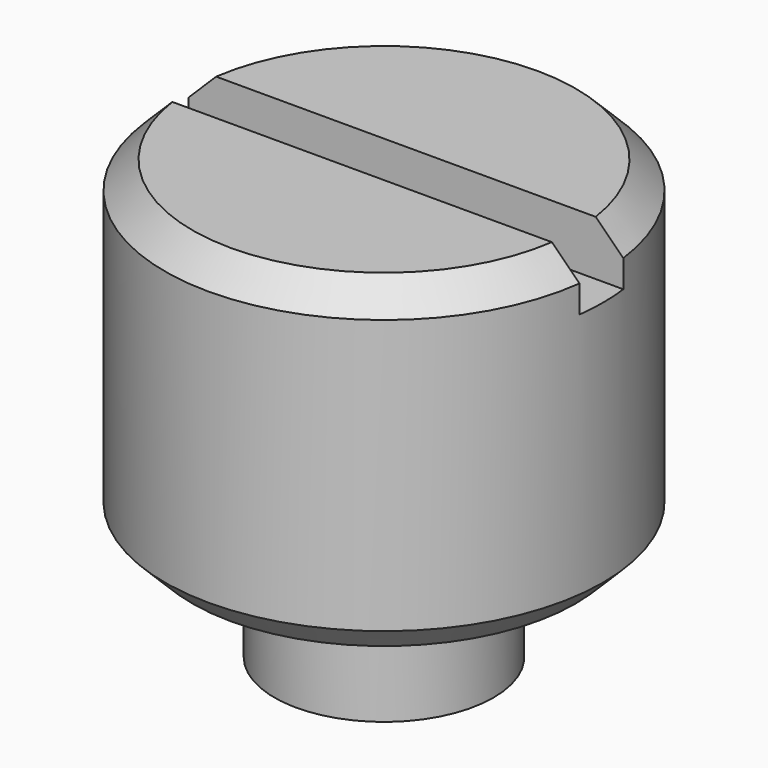
from build123d import *

# Parameters (mm, degrees)
F2_SIZE  = 0.5
F3_SIZE  = 0.5
F5_DEPTH = 1


with BuildPart() as f1:
    # F0 (on Front) → F1 (revolve)
    with BuildSketch(Plane.XZ):
        Polygon((0, 8), (0, 0), (2, 0), (2, 2), (3.9999996265, 2), (3.9999996265, 8), align=None)
    revolve(axis=Axis((0, 0, 4), (0, 0, -1)))

    # F2
    f2_edges = [f1.edges().sort_by_distance(p)[0] for p in [
        (-4, 0, 8),
    ]]
    chamfer(f2_edges, length=F2_SIZE)

    # F3
    f3_edges = [f1.edges().sort_by_distance(p)[0] for p in [
        (-4, 0, 2),
    ]]
    chamfer(f3_edges, length=F3_SIZE)

    # F4 (on face) → F5 (cut)
    with BuildSketch(Plane.XY.offset(8)):
        with BuildLine():
            Line((5, 0.5), (3.4641012378, 0.5))
            ThreePointArc((3.4641012378, 0.5), (3.4910134935, 0.2506435189), (3.4999996265, 0))
            ThreePointArc((3.4999996265, 0), (3.4910134935, -0.2506435189), (3.4641012378, -0.5))
            Line((3.4641012378, -0.5), (5, -0.5))
            Line((5, -0.5), (5, 0))
            Line((5, 0), (5, 0.5))
        make_face()
        with BuildLine():
            ThreePointArc((-3.4641012378, 0.5), (-3.4910134935, 0.2506435189), (-3.4999996265, 0))
            ThreePointArc((-3.4999996265, 0), (-3.4910134935, -0.2506435189), (-3.4641012378, -0.5))
            Line((-3.4641012378, -0.5), (3.4641012378, -0.5))
            ThreePointArc((3.4641012378, -0.5), (3.4910134935, -0.2506435189), (3.4999996265, 0))
            ThreePointArc((3.4999996265, 0), (3.4910134935, 0.2506435189), (3.4641012378, 0.5))
            Line((3.4641012378, 0.5), (-3.4641012378, 0.5))
        make_face()
        with BuildLine():
            ThreePointArc((-3.4641012378, -0.5), (-3.4910134935, -0.2506435189), (-3.4999996265, 0))
            Line((-3.4999996265, 0), (-5, 0))
            Line((-5, 0), (-5, -0.5))
            Line((-5, -0.5), (-3.4641012378, -0.5))
        make_face()
        with BuildLine():
            Line((-5, 0), (-3.4999996265, 0))
            ThreePointArc((-3.4999996265, 0), (-3.4910134935, 0.2506435189), (-3.4641012378, 0.5))
            Line((-3.4641012378, 0.5), (-5, 0.5))
            Line((-5, 0.5), (-5, 0))
        make_face()
    extrude(amount=-F5_DEPTH, mode=Mode.SUBTRACT)


solid = f1.part
